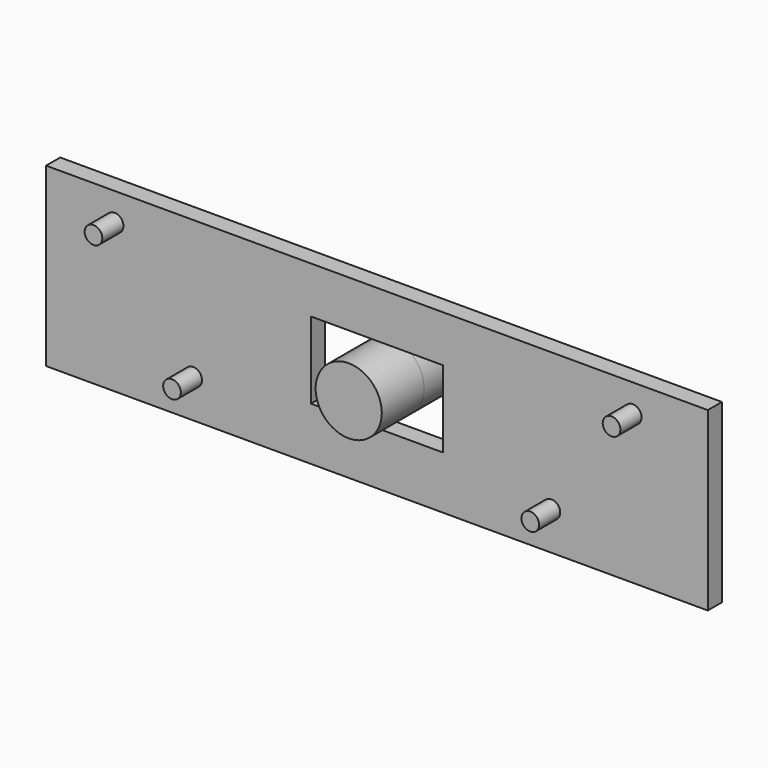
from build123d import *

# Parameters (mm, degrees)
F0_W          = 38.1
F0_H          = 10.16
F1_DEPTH      = 1.016
F2_R          = 0.508
F3_DEPTH      = 2.54
F4_W          = 7.62
F4_H          = 4.4223206656
F5_DEPTH      = 2.54
F6_R          = 1.905
F7_DEPTH      = 3.048
F7_DEPTH_BACK = 3.048


with BuildPart() as f1:
    # F0 (on Front) → F1 (new body)
    with BuildSketch(Plane.XZ):
        with Locations((-11.4378130529, 8.7561514427)):
            Rectangle(F0_W, F0_H)
    extrude(amount=F1_DEPTH)

    # F2 (on Front) → F3 (join)
    with BuildSketch(Plane.XZ):
        with Locations((3.2896965753, 12.2238437514)):
            Circle(F2_R)
        with Locations((-1.3911404423, 5.8769460577)):
            Circle(F2_R)
        with Locations((-26.5407218297, 12.2238437514)):
            Circle(F2_R)
        with Locations((-22.0185570657, 5.8769460577)):
            Circle(F2_R)
    extrude(amount=F3_DEPTH)

    # F4 (on Front) → F5 (cut)
    with BuildSketch(Plane.XZ):
        with Locations((-11.4378130529, 8.9389616624)):
            Rectangle(F4_W, F4_H)
    extrude(amount=F5_DEPTH, mode=Mode.SUBTRACT)


with BuildPart() as f7:
    # F6 (on Front) → F7 (new body, two sides)
    with BuildSketch(Plane.XZ) as f7_sk:
        with Locations((-11.4378130529, 8.9389616624)):
            Circle(F6_R)
    extrude(amount=-F7_DEPTH)
    extrude(f7_sk.sketch, amount=F7_DEPTH_BACK)


solid = Compound([f1.part, f7.part])
